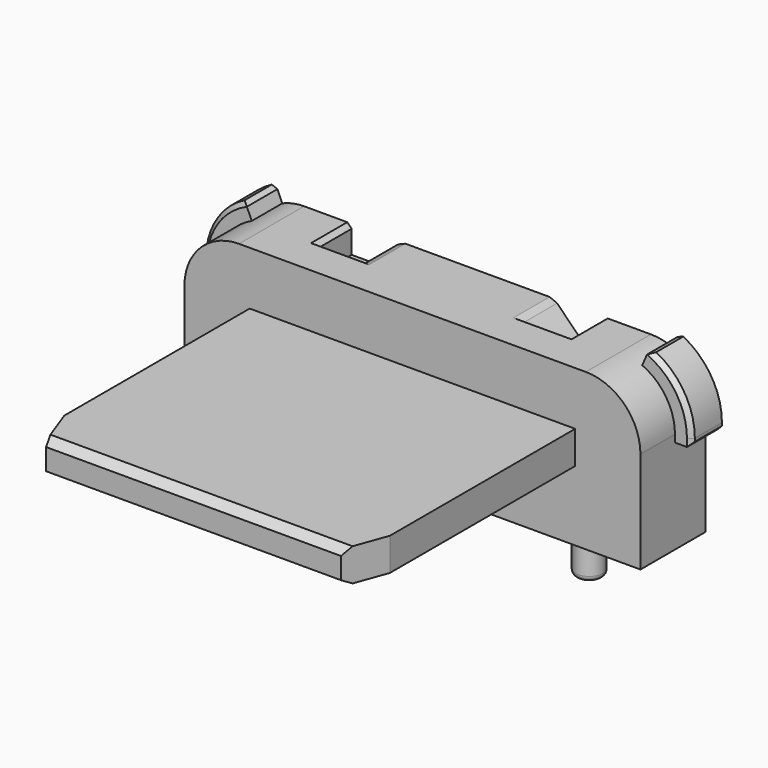
from build123d import *

# Parameters (mm, degrees)
PAD003_DEPTH    = 1.49
PAD004_DEPTH    = 0.7
POCKET003_DEPTH = 0.75
CHAMFER_SIZE    = 0.08
PAD006_DEPTH    = 0.6
POCKET004_DEPTH = 7.456
SKETCH014_R     = 0.25
PAD007_DEPTH    = 0.68
FILLET002_R     = 0.1


with BuildPart() as part:
    # Sketch006 → Pad003 (new body)
    with BuildSketch(Plane.XZ.offset(-7.3)):
        with BuildLine():
            Line((0.3, 0), (0.3, 1.86))
            ThreePointArc((1.3, 2.86), (0.592893, 2.567107), (0.3, 1.86))
            Line((1.3, 2.86), (7.65, 2.86))
            ThreePointArc((8.65, 1.86), (8.357107, 2.567107), (7.65, 2.86))
            Line((8.65, 1.86), (8.65, 0))
            Line((8.65, 0), (0.3, 0))
        make_face()
    extrude(amount=PAD003_DEPTH)

    # Sketch008 → Pad004 (join)
    with BuildSketch(Plane.XZ.offset(-7.3)):
        with BuildLine():
            Line((0.78, 3.05147), (0.9, 2.776515))
            Line((0.9, 1.725), (0.9, 2.776515))
            Line((0.9, 1.725), (0, 1.725))
            Line((0, 1.725), (0, 1.86))
            ThreePointArc((0.78, 3.05147), (0.212342, 2.572039), (0, 1.86))
        make_face()
        with BuildLine():
            Line((8.05, 2.776515), (8.17, 3.05147))
            ThreePointArc((8.95, 1.86), (8.737658, 2.572039), (8.17, 3.05147))
            Line((8.95, 1.725), (8.95, 1.86))
            Line((8.05, 1.725), (8.95, 1.725))
            Line((8.05, 2.776515), (8.05, 1.725))
        make_face()
    extrude(amount=PAD004_DEPTH)

    # Sketch009 → Pocket003 (cut)
    with BuildSketch(Plane.XZ.offset(-7.3)):
        Polygon((2.17, 2.86), (2.17, 2.36), (2.575, 2.36), (3.075, 2.86), align=None)
        Polygon((5.875, 2.86), (6.375, 2.36), (6.78, 2.36), (6.78, 2.86), align=None)
    extrude(amount=POCKET003_DEPTH, mode=Mode.SUBTRACT)

    # Chamfer
    chamfer_edges = [part.edges().sort_by_distance(p)[0] for p in [
        (8.95, 6.6, 1.7925),
        (8.737658, 6.6, 2.572039),
        (8.17, 6.95, 3.05147),
        (6.78, 6.925, 2.86),
        (6.3275, 6.55, 2.86),
        (5.875, 6.925, 2.86),
        (3.075, 6.925, 2.86),
        (2.6225, 6.55, 2.86),
        (2.17, 6.925, 2.86),
        (0.78, 6.95, 3.05147),
        (0.212342, 6.6, 2.572039),
        (0, 6.6, 1.7925),
        (8.95, 6.95, 1.725),
        (0, 6.95, 1.725),
    ]]
    chamfer(chamfer_edges, length=CHAMFER_SIZE)

    # Sketch012 → Pad006 (join)
    with BuildSketch(Plane.XY.offset(1.28)):
        Polygon((1.495, 5.81), (1.495, 1.569294), (1.775, 0.8), (7.175, 0.8), (7.455, 1.569294), (7.455, 5.81), align=None)
    extrude(amount=PAD006_DEPTH)

    # Sketch013 → Pocket004 (cut, through all)
    with BuildSketch(Plane(origin=(1.495, 0.8, 1.88), x_dir=(0, 1, 0), z_dir=(1, 0, 0))):
        Polygon((0, -0.105), (0.181865, 0), (0, 0), align=None)
        Polygon((0, -0.6), (0.181865, -0.6), (0, -0.495), align=None)
    extrude(amount=POCKET004_DEPTH, mode=Mode.SUBTRACT)

    # Sketch014 → Pad007 (join)
    with BuildSketch(Plane.XY):
        with Locations((1.58, 6.25)):
            Circle(SKETCH014_R)
        with Locations((7.36, 6.25)):
            Circle(SKETCH014_R)
    extrude(amount=-PAD007_DEPTH)

    # Fillet002
    fillet002_edges = [part.edges().sort_by_distance(p)[0] for p in [
        (7.11, 6.25, -0.68),
        (1.33, 6.25, -0.68),
    ]]
    fillet(fillet002_edges, radius=FILLET002_R)


solid = part.part
